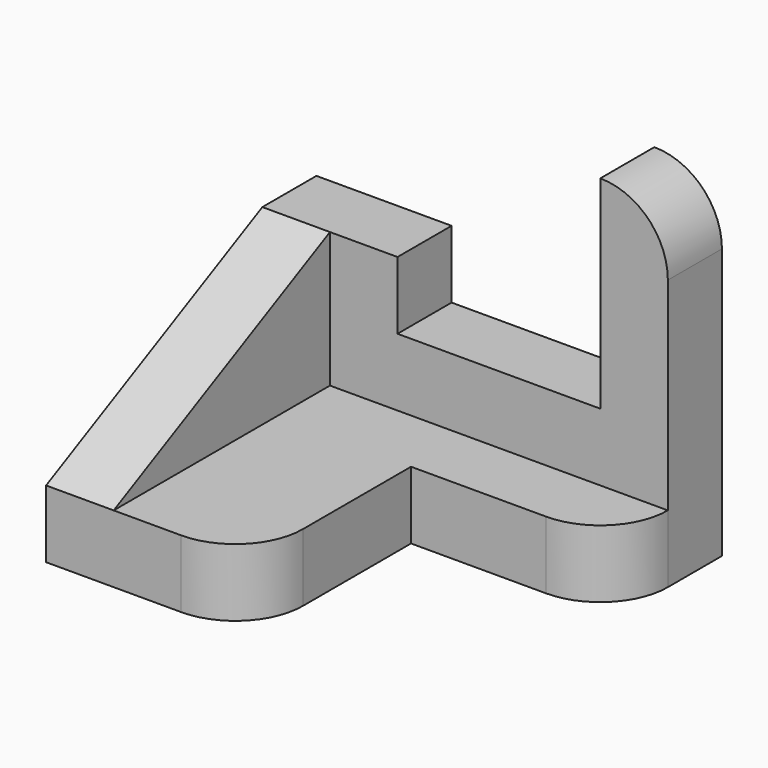
from build123d import *

# Parameters (mm, degrees)
F1_DEPTH = 10
F3_DEPTH = 10
F5_DEPTH = 10


with BuildPart() as f1:
    # F0 (on Top) → F1 (new body)
    with BuildSketch(Plane.XY):
        with BuildLine():
            Line((0, 50), (0, 0))
            Line((0, 0), (20, 0))
            ThreePointArc((20, 0), (27.071068, 2.928932), (30, 10))
            Line((30, 10), (30, 30))
            Line((30, 30), (50, 30))
            ThreePointArc((50, 30), (57.071068, 32.928932), (60, 40))
            Line((60, 40), (60, 50))
            Line((60, 50), (0, 50))
        make_face()
    extrude(amount=F1_DEPTH)

    # F2 (on face) → F3 (join)
    with BuildSketch(Plane(origin=(0, 50, 0), x_dir=(-1, 0, 0), z_dir=(0, 1, 0))):
        with BuildLine():
            Line((-60, 10), (0, 10))
            Line((0, 10), (0, 30))
            Line((0, 30), (-20, 30))
            Line((-20, 30), (-20, 20))
            Line((-20, 20), (-50, 20))
            Line((-50, 20), (-50, 50))
            ThreePointArc((-50, 50), (-57.071068, 47.071068), (-60, 40))
            Line((-60, 40), (-60, 10))
        make_face()
    extrude(amount=-F3_DEPTH)

    # F4 (on face) → F5 (join)
    with BuildSketch(Plane(origin=(0, 0, 0), x_dir=(0, -1, 0), z_dir=(-1, 0, 0))):
        Polygon((0, 10), (-40, 30), (-40, 10), align=None)
    extrude(amount=-F5_DEPTH)


solid = f1.part
